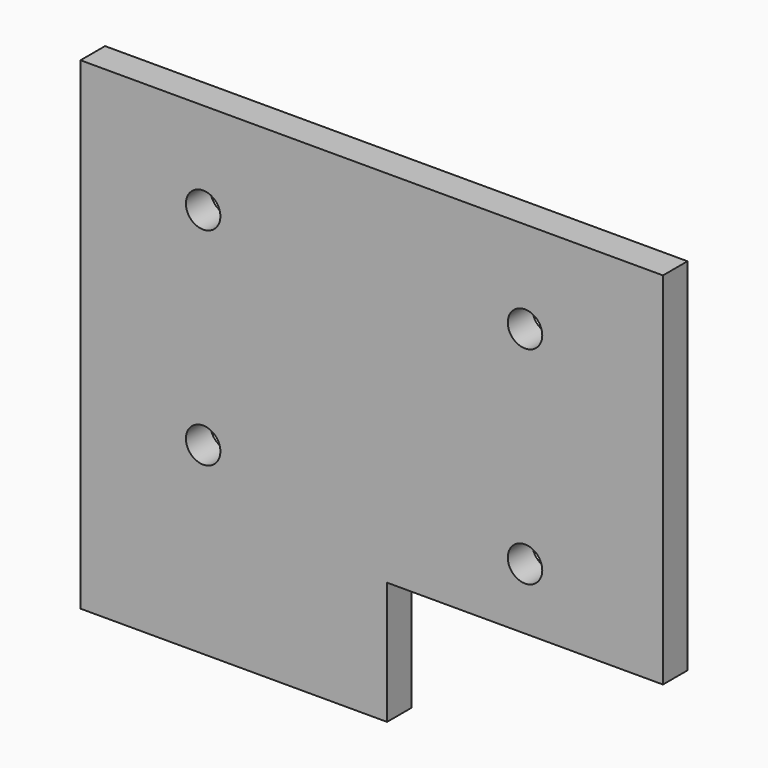
from build123d import *

# Parameters (mm, degrees)
F0_R     = 7.14375
F1_DEPTH = 12.7


with BuildPart() as f1:
    # F0 (on Front) → F1 (new body)
    with BuildSketch(Plane.XZ):
        Polygon((120.559285, 134.108239), (-120.740715, 134.108239), (-120.740715, -65.916761), (6.259285, -65.916761), (6.259285, -15.116761), (120.559285, -15.116761), align=None)
        with Locations((-69.940715, 10.283239)):
            Circle(F0_R, mode=Mode.SUBTRACT)
        with Locations((63.409285, 10.283239)):
            Circle(F0_R, mode=Mode.SUBTRACT)
        with Locations((-69.940715, 96.008239)):
            Circle(F0_R, mode=Mode.SUBTRACT)
        with Locations((63.409285, 96.008239)):
            Circle(F0_R, mode=Mode.SUBTRACT)
    extrude(amount=F1_DEPTH)


solid = f1.part
